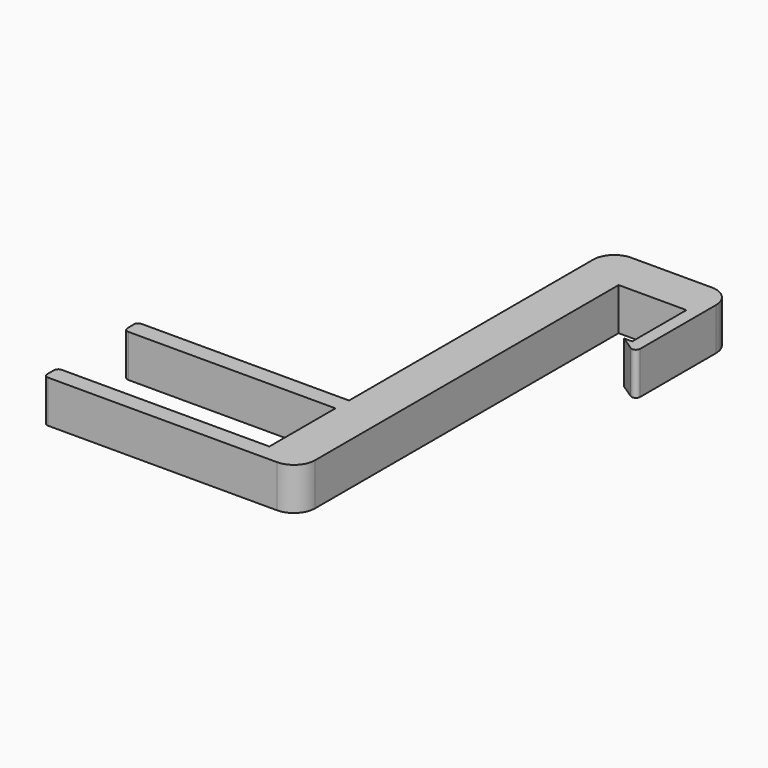
from build123d import *

# Parameters (mm, degrees)
F0_W     = 3
F0_H     = 16
F1_DEPTH = 10


with BuildPart() as f1:
    # F0 (on Top) → F1 (new body)
    with BuildSketch(Plane.XY):
        with BuildLine():
            Line((0, -23.5), (0, -19.5))
            Line((0, -19.5), (-49, -19.5))
            ThreePointArc((-49, -19.5), (-49.707107, -19.792893), (-50, -20.5))
            Line((-50, -20.5), (-50, -22.5))
            ThreePointArc((-50, -22.5), (-49.707107, -23.207107), (-49, -23.5))
            Line((-49, -23.5), (0, -23.5))
        make_face()
        with BuildLine():
            Line((0, 4), (0, 0))
            Line((0, 0), (0, -19.5))
            Line((0, -19.5), (0, -23.5))
            Line((0, -23.5), (5, -23.5))
            ThreePointArc((5, -23.5), (8.535534, -22.035534), (10, -18.5))
            Line((10, -18.5), (10, 71))
            Line((10, 71), (26, 71))
            Line((26, 71), (29, 71))
            Line((29, 71), (29, 75.97183))
            ThreePointArc((29, 75.97183), (27.535534, 79.507364), (24, 80.97183))
            Line((24, 80.97183), (5, 80.97183))
            ThreePointArc((5, 80.97183), (1.464466, 79.507364), (0, 75.97183))
            Line((0, 75.97183), (0, 4))
        make_face()
        with Locations((27.5, 63)):
            Rectangle(F0_W, F0_H)
        with BuildLine():
            Line((-48.889865, 0), (0, 0))
            Line((0, 0), (0, 4))
            Line((0, 4), (-48.962844, 4))
            ThreePointArc((-48.962844, 4), (-49.682728, 3.694094), (-49.962179, 2.963534))
            Line((-49.962179, 2.963534), (-49.889199, 0.963534))
            ThreePointArc((-49.889199, 0.963534), (-49.583959, 0.280116), (-48.889865, 0))
        make_face()
        with BuildLine():
            Line((29, 53.599753), (29, 55))
            Line((29, 55), (26, 55))
            Line((26, 55), (24.074446, 55))
            Line((24.074446, 55), (27.447859, 52.766002))
            ThreePointArc((27.447859, 52.766002), (28.473212, 52.718804), (29, 53.599753))
        make_face()
    extrude(amount=-F1_DEPTH)


solid = f1.part
